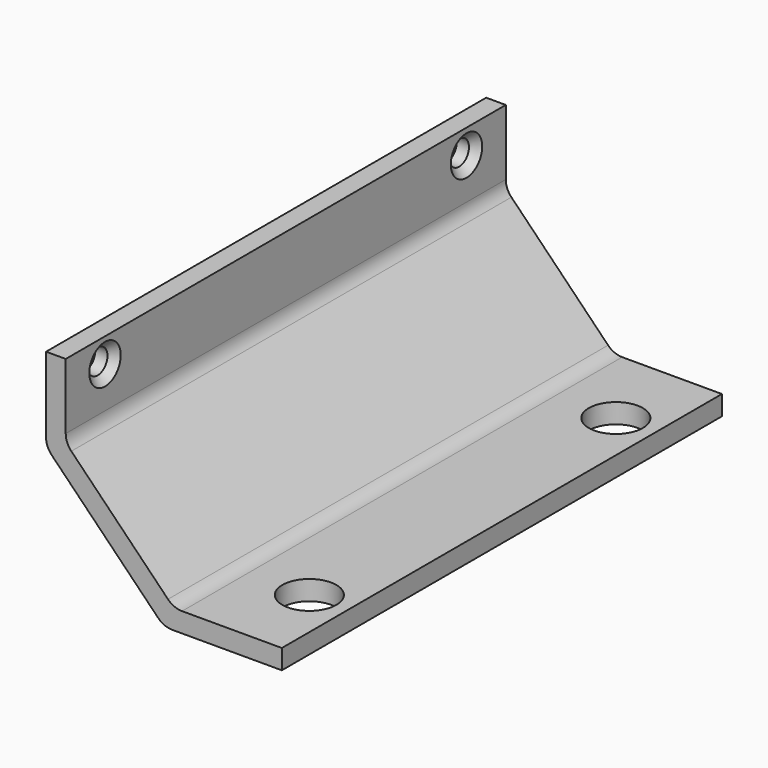
from build123d import *

# Parameters (mm, degrees)
F0_W     = 8
F0_H     = 30
F0_W_2   = 44
F0_H_2   = 8
F1_DEPTH = 224
F2_R     = 5
F3_DEPTH = 25
F4_R     = 11
F5_DEPTH = 25
F6_SIZE  = 3
F7_R     = 8
F8_R     = 8


with BuildPart() as f1:
    # F0 (on Front) → F1 (new body)
    with BuildSketch(Plane.XZ):
        with Locations((-20.8588695079, 39.1709680259)):
            Rectangle(F0_W, F0_H)
        Polygon((-16.8588695079, 24.1709680259), (-24.8588695079, 24.1709680259), (-24.8588695079, 20.1709680259), align=None)
        Polygon((27.1411304921, -20.8290319741), (-16.8588695079, 24.1709680259), (-24.8588695079, 20.1709680259), (23.1411304921, -28.8290319741), align=None)
        with Locations((49.1411304921, -24.8290319741)):
            Rectangle(F0_W_2, F0_H_2)
        Polygon((27.1411304921, -28.8290319741), (27.1411304921, -20.8290319741), (23.1411304921, -28.8290319741), align=None)
    extrude(amount=F1_DEPTH)

    # F2 (on face) → F3 (cut)
    with BuildSketch(Plane(origin=(-24.8588695079, 0, 0), x_dir=(0, -1, 0), z_dir=(-1, 0, 0))):
        with Locations((20, 44.1709680259)):
            Circle(F2_R)
        with Locations((204, 44.1709680259)):
            Circle(F2_R)
    extrude(amount=-F3_DEPTH, mode=Mode.SUBTRACT)

    # F4 (on face) → F5 (cut)
    with BuildSketch(Plane(origin=(0, 0, -28.8290319741), x_dir=(1, 0, 0), z_dir=(0, 0, -1))):
        with Locations((55.1411304921, 34)):
            Circle(F4_R)
        with Locations((55.1411304921, 190)):
            Circle(F4_R)
    extrude(amount=-F5_DEPTH, mode=Mode.SUBTRACT)

    # F6
    f6_edges = [f1.edges().sort_by_distance(p)[0] for p in [
        (-16.85887, -199, 44.170968),
        (-16.85887, -15, 44.170968),
    ]]
    chamfer(f6_edges, length=F6_SIZE)

    # F7
    f7_edges = [f1.edges().sort_by_distance(p)[0] for p in [
        (-16.85887, -112, 24.170968),
        (27.14113, -112, -20.829032),
    ]]
    fillet(f7_edges, radius=F7_R)

    # F8
    f8_edges = [f1.edges().sort_by_distance(p)[0] for p in [
        (-24.85887, -112, 20.170968),
        (23.14113, -112, -28.829032),
    ]]
    fillet(f8_edges, radius=F8_R)


solid = f1.part
